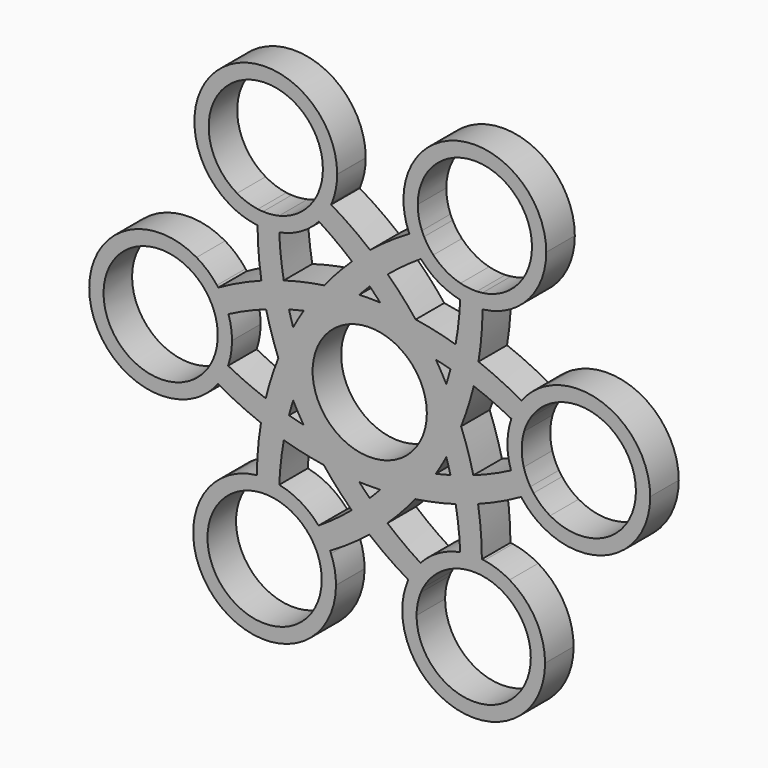
from build123d import *

# Parameters (mm, degrees)
F0_R     = 11.2
F1_DEPTH = 7


with BuildPart() as f1:
    # F0 (on Front) → F1 (new body)
    with BuildSketch(Plane.XZ):
        with BuildLine():
            Line((-9.1836871487, 35.5373028008), (-6.3837021588, 35.5281345802))
            ThreePointArc((-6.3837021588, 35.5281345802), (-6.383645871, 35.551055101), (-6.3836271084, 35.5739756832))
            ThreePointArc((-6.3836271084, 35.5739756832), (-27.3637679206, 47.7097753783), (-27.4232891429, 23.4726055773))
            Line((-27.4232891429, 23.4726055773), (-26.015356736, 25.8928795984))
            ThreePointArc((-26.015356736, 25.8928795984), (-25.9677397582, 45.2826154393), (-9.1836271084, 35.5739756832))
            ThreePointArc((-9.1836271084, 35.5739756832), (-9.1836421185, 35.5556392174), (-9.1836871487, 35.5373028008))
        make_face()
        with BuildLine():
            ThreePointArc((-7.410581207, 30.3108891325), (-6.6471719016, 32.8703118074), (-6.3837021588, 35.5281345802))
            Line((-6.3837021588, 35.5281345802), (-9.1836871487, 35.5373028008))
            ThreePointArc((-9.1836871487, 35.5373028008), (-9.4012400415, 33.3768925458), (-10.0315693956, 31.2990603495))
            ThreePointArc((-10.0315693956, 31.2990603495), (-9.1276363466, 30.8126711417), (-8.2321564565, 30.3108891325))
            Line((-8.2321564565, 30.3108891325), (-7.410581207, 30.3108891325))
        make_face()
        with BuildLine():
            ThreePointArc((-7.5724863783, 29.9282097304), (-7.9017134035, 30.1205975373), (-8.2321564565, 30.3108891325))
            Line((-8.2321564565, 30.3108891325), (-10.4972769244, 30.3108891325))
            ThreePointArc((-10.4972769244, 30.3108891325), (-11.3583855764, 28.9418557137), (-12.4076947331, 27.7111197932))
            ThreePointArc((-12.4076947331, 27.7111197932), (-11.1738310956, 26.9854765696), (-9.9576290906, 26.230605556))
            ThreePointArc((-9.9576290906, 26.230605556), (-8.6188821704, 27.9851169715), (-7.5724863783, 29.9282097304))
        make_face()
        with BuildLine():
            ThreePointArc((-8.2321564565, 30.3108891325), (-9.1276363466, 30.8126711417), (-10.0315693956, 31.2990603495))
            ThreePointArc((-10.0315693956, 31.2990603495), (-10.2523680979, 30.7992934045), (-10.4972769244, 30.3108891325))
            Line((-10.4972769244, 30.3108891325), (-8.2321564565, 30.3108891325))
        make_face()
        with BuildLine():
            ThreePointArc((-17.7412958922, 21.8255908419), (-13.4882412671, 23.3898198199), (-9.9576290906, 26.230605556))
            ThreePointArc((-9.9576290906, 26.230605556), (-11.1738310956, 26.9854765696), (-12.4076947331, 27.7111197932))
            ThreePointArc((-12.4076947331, 27.7111197932), (-14.8875514195, 25.8152282214), (-17.794339534, 24.6773895271))
            ThreePointArc((-17.794339534, 24.6773895271), (-17.784766279, 23.2511749401), (-17.7412958922, 21.8255908419))
        make_face()
        with BuildLine():
            Line((-20.920252105, 24.3868387119), (-21.986200672, 22.5405616357))
            ThreePointArc((-21.986200672, 22.5405616357), (-21.9901571892, 22.1035628839), (-21.9909306937, 21.6665469063))
            ThreePointArc((-21.9909306937, 21.6665469063), (-19.860039205, 21.5837699768), (-17.7412958922, 21.8255908419))
            ThreePointArc((-17.7412958922, 21.8255908419), (-17.784766279, 23.2511749401), (-17.794339534, 24.6773895271))
            ThreePointArc((-17.794339534, 24.6773895271), (-19.3470650704, 24.4220458438), (-20.920252105, 24.3868387119))
        make_face()
        with BuildLine():
            Line((-26.015356736, 25.8928795984), (-27.4232891429, 23.4726055773))
            ThreePointArc((-27.4232891429, 23.4726055773), (-25.022034137, 22.3646918178), (-22.4552755973, 21.7281000323))
            Line((-22.4552755973, 21.7281000323), (-21.986200672, 22.5405616357))
            ThreePointArc((-21.986200672, 22.5405616357), (-21.9660239394, 23.511139), (-21.9301466293, 24.4812628783))
            ThreePointArc((-21.9301466293, 24.4812628783), (-24.0414926951, 24.988135171), (-26.015356736, 25.8928795984))
        make_face()
        with BuildLine():
            Line((-21.986200672, 22.5405616357), (-22.4552755973, 21.7281000323))
            ThreePointArc((-22.4552755973, 21.7281000323), (-22.2233605913, 21.6953813483), (-21.9909306937, 21.6665469063))
            ThreePointArc((-21.9909306937, 21.6665469063), (-21.9901571892, 22.1035628839), (-21.986200672, 22.5405616357))
        make_face()
        with BuildLine():
            ThreePointArc((-20.920252105, 24.3868387119), (-21.4262688258, 24.4226126163), (-21.9301466293, 24.4812628783))
            ThreePointArc((-21.9301466293, 24.4812628783), (-21.9660239394, 23.511139), (-21.986200672, 22.5405616357))
            Line((-21.986200672, 22.5405616357), (-20.920252105, 24.3868387119))
        make_face()
        with BuildLine():
            ThreePointArc((-7.5724863783, 29.9282097304), (-7.4901139741, 30.1189487303), (-7.410581207, 30.3108891325))
            Line((-7.410581207, 30.3108891325), (-8.2321564565, 30.3108891325))
            ThreePointArc((-8.2321564565, 30.3108891325), (-7.9017134035, 30.1205975373), (-7.5724863783, 29.9282097304))
        make_face()
        with BuildLine():
            ThreePointArc((-3.4745154282, 21.458341195), (-1.7278024327, 23.0544963289), (0.0804860799, 24.580540285))
            ThreePointArc((0.0804860799, 24.580540285), (-3.641827315, 27.4034552452), (-7.5724863783, 29.9282097304))
            ThreePointArc((-7.5724863783, 29.9282097304), (-8.6188821704, 27.9851169715), (-9.9576290906, 26.230605556))
            ThreePointArc((-9.9576290906, 26.230605556), (-6.6359454471, 23.9533255246), (-3.4745154282, 21.458341195))
        make_face()
        with BuildLine():
            ThreePointArc((-16.8605141917, 13.8179640045), (-17.4354501583, 17.8069784223), (-17.7412958922, 21.8255908419))
            ThreePointArc((-17.7412958922, 21.8255908419), (-19.860039205, 21.5837699768), (-21.9909306937, 21.6665469063))
            ThreePointArc((-21.9909306937, 21.6665469063), (-21.8003224529, 16.9987707354), (-21.2471292856, 12.3599731324))
            ThreePointArc((-21.2471292856, 12.3599731324), (-19.0678679119, 13.1312288849), (-16.8605141917, 13.8179640045))
        make_face()
        with BuildLine():
            ThreePointArc((-15.8307879866, 9.1399097055), (-16.392353219, 11.4686568531), (-16.8605141917, 13.8179640045))
            ThreePointArc((-16.8605141917, 13.8179640045), (-19.0678679119, 13.1312288849), (-21.2471292856, 12.3599731324))
            ThreePointArc((-21.2471292856, 12.3599731324), (-20.8296807086, 10.0309273651), (-20.320726312, 7.7201519708))
            ThreePointArc((-20.320726312, 7.7201519708), (-18.089691112, 8.4740965485), (-15.8307879866, 9.1399097055))
        make_face()
        with BuildLine():
            ThreePointArc((-12.9671643404, 9.8480447057), (-11.0217853184, 12.7581969973), (-8.9100063016, 15.5499482906))
            ThreePointArc((-8.9100063016, 15.5499482906), (-12.9146547221, 14.8188886702), (-16.8605141917, 13.8179640045))
            ThreePointArc((-16.8605141917, 13.8179640045), (-16.392353219, 11.4686568531), (-15.8307879866, 9.1399097055))
            ThreePointArc((-15.8307879866, 9.1399097055), (-14.4033287247, 9.5115785064), (-12.9671643404, 9.8480447057))
        make_face()
        with BuildLine():
            ThreePointArc((0, 18.2798194111), (-1.7060626709, 19.9031803238), (-3.4745154282, 21.458341195))
            ThreePointArc((-3.4745154282, 21.458341195), (-6.2911933085, 18.5951587297), (-8.9100063016, 15.5499482906))
            ThreePointArc((-8.9100063016, 15.5499482906), (-5.4817623048, 15.9558898835), (-2.0358460149, 16.1639917839))
            ThreePointArc((-2.0358460149, 16.1639917839), (-1.0308677331, 17.2343609921), (0, 18.2798194111))
        make_face()
        with BuildLine():
            ThreePointArc((3.5364507606, 21.5106156132), (1.8380438413, 23.0788724502), (0.0804860799, 24.580540285))
            ThreePointArc((0.0804860799, 24.580540285), (-1.7278024327, 23.0544963289), (-3.4745154282, 21.458341195))
            ThreePointArc((-3.4745154282, 21.458341195), (-1.7060626709, 19.9031803238), (0, 18.2798194111))
            ThreePointArc((0, 18.2798194111), (1.7359715726, 19.9305227421), (3.5364507606, 21.5106156132))
        make_face()
        with BuildLine():
            ThreePointArc((-2.0358460149, 16.1639917839), (-5.4817623048, 15.9558898835), (-8.9100063016, 15.5499482906))
            ThreePointArc((-8.9100063016, 15.5499482906), (-11.0217853184, 12.7581969973), (-12.9671643404, 9.8480447057))
            ThreePointArc((-12.9671643404, 9.8480447057), (-9.6549419215, 10.4841175434), (-6.3122114792, 10.93307099))
            ThreePointArc((-6.3122114792, 10.93307099), (-4.2477174835, 13.6087731647), (-2.0358460149, 16.1639917839))
        make_face()
        with BuildLine():
            ThreePointArc((6.3122114792, 10.93307099), (4.2520411682, 13.6034837478), (2.0450747225, 16.1539160866))
            ThreePointArc((2.0450747225, 16.1539160866), (0.0047000416, 16.1936597328), (-2.0358460149, 16.1639917839))
            ThreePointArc((-2.0358460149, 16.1639917839), (-4.2477174835, 13.6087731647), (-6.3122114792, 10.93307099))
            ThreePointArc((-6.3122114792, 10.93307099), (0, 11.266028276), (6.3122114792, 10.93307099))
        make_face()
        with BuildLine():
            ThreePointArc((9.0116470964, 15.4912659504), (6.3762066832, 18.5938634056), (3.5364507606, 21.5106156132))
            ThreePointArc((3.5364507606, 21.5106156132), (1.7359715726, 19.9305227421), (0, 18.2798194111))
            ThreePointArc((0, 18.2798194111), (1.0356042543, 17.2294378278), (2.0450747225, 16.1539160866))
            ThreePointArc((2.0450747225, 16.1539160866), (5.5380300469, 15.9242445794), (9.0116470964, 15.4912659504))
        make_face()
        with BuildLine():
            ThreePointArc((12.980504504, 9.8450902591), (11.0773248266, 12.7252903552), (9.0116470964, 15.4912659504))
            ThreePointArc((9.0116470964, 15.4912659504), (5.5380300469, 15.9242445794), (2.0450747225, 16.1539160866))
            ThreePointArc((2.0450747225, 16.1539160866), (4.2520411682, 13.6034837478), (6.3122114792, 10.93307099))
            ThreePointArc((6.3122114792, 10.93307099), (9.6616845332, 10.4830178312), (12.980504504, 9.8450902591))
        make_face()
        with BuildLine():
            ThreePointArc((-17.921653398, 0.0586823402), (-16.5590871315, 3.2305995282), (-15.0163505189, 6.3189015249))
            ThreePointArc((-15.0163505189, 6.3189015249), (-15.4408283037, 7.7244228513), (-15.8307879866, 9.1399097055))
            ThreePointArc((-15.8307879866, 9.1399097055), (-18.089691112, 8.4740965485), (-20.320726312, 7.7201519708))
            ThreePointArc((-20.320726312, 7.7201519708), (-19.2494765016, 3.8492461395), (-17.921653398, 0.0586823402))
        make_face()
        with BuildLine():
            ThreePointArc((-12.6244229583, 0), (-13.9094020167, 3.1257553335), (-15.0163505189, 6.3189015249))
            ThreePointArc((-15.0163505189, 6.3189015249), (-16.5590871315, 3.2305995282), (-17.921653398, 0.0586823402))
            ThreePointArc((-17.921653398, 0.0586823402), (-16.5598153653, -3.1660475821), (-15.0122390629, -6.305871381))
            ThreePointArc((-15.0122390629, -6.305871381), (-13.9069830896, -3.1193662043), (-12.6244229583, 0))
        make_face()
        with BuildLine():
            ThreePointArc((-6.3122114792, 10.93307099), (-9.6549419215, 10.4841175434), (-12.9671643404, 9.8480447057))
            ThreePointArc((-12.9671643404, 9.8480447057), (-14.021770688, 8.1009002218), (-15.0163505189, 6.3189015249))
            ThreePointArc((-15.0163505189, 6.3189015249), (-13.9094020167, 3.1257553335), (-12.6244229583, 0))
            ThreePointArc((-12.6244229583, 0), (-9.7566666867, 5.633014138), (-6.3122114792, 10.93307099))
        make_face()
        with BuildLine():
            ThreePointArc((6.3122114792, -10.93307099), (9.7566666867, -5.633014138), (12.6244229583, 0))
            ThreePointArc((12.6244229583, 0), (9.7566666867, 5.633014138), (6.3122114792, 10.93307099))
            ThreePointArc((6.3122114792, 10.93307099), (0, 11.266028276), (-6.3122114792, 10.93307099))
            ThreePointArc((-6.3122114792, 10.93307099), (-9.7566666867, 5.633014138), (-12.6244229583, 0))
            ThreePointArc((-12.6244229583, 0), (-9.7566666867, -5.633014138), (-6.3122114792, -10.93307099))
            ThreePointArc((-6.3122114792, -10.93307099), (0, -11.266028276), (6.3122114792, -10.93307099))
        make_face()
        Circle(F0_R, mode=Mode.SUBTRACT)
        with BuildLine():
            ThreePointArc((12.6244229583, 0), (13.9069830896, 3.1193662043), (15.0122390629, 6.305871381))
            ThreePointArc((15.0122390629, 6.305871381), (14.0264707297, 8.092759511), (12.980504504, 9.8450902591))
            ThreePointArc((12.980504504, 9.8450902591), (9.6616845332, 10.4830178312), (6.3122114792, 10.93307099))
            ThreePointArc((6.3122114792, 10.93307099), (9.7566666867, 5.633014138), (12.6244229583, 0))
        make_face()
        with BuildLine():
            ThreePointArc((15.0163505189, -6.3189015249), (16.5590871315, -3.2305995282), (17.921653398, -0.0586823402))
            ThreePointArc((17.921653398, -0.0586823402), (16.5598153653, 3.1660475821), (15.0122390629, 6.305871381))
            ThreePointArc((15.0122390629, 6.305871381), (13.9069830896, 3.1193662043), (12.6244229583, 0))
            ThreePointArc((12.6244229583, 0), (13.9094020167, -3.1257553335), (15.0163505189, -6.3189015249))
        make_face()
        with BuildLine():
            ThreePointArc((12.9671643404, -9.8480447057), (14.021770688, -8.1009002218), (15.0163505189, -6.3189015249))
            ThreePointArc((15.0163505189, -6.3189015249), (13.9094020167, -3.1257553335), (12.6244229583, 0))
            ThreePointArc((12.6244229583, 0), (9.7566666867, -5.633014138), (6.3122114792, -10.93307099))
            ThreePointArc((6.3122114792, -10.93307099), (9.6549419215, -10.4841175434), (12.9671643404, -9.8480447057))
        make_face()
        with BuildLine():
            ThreePointArc((8.9100063016, -15.5499482906), (11.0217853184, -12.7581969973), (12.9671643404, -9.8480447057))
            ThreePointArc((12.9671643404, -9.8480447057), (9.6549419215, -10.4841175434), (6.3122114792, -10.93307099))
            ThreePointArc((6.3122114792, -10.93307099), (4.2477174835, -13.6087731647), (2.0358460149, -16.1639917839))
            ThreePointArc((2.0358460149, -16.1639917839), (5.4817623048, -15.9558898835), (8.9100063016, -15.5499482906))
        make_face()
        with BuildLine():
            ThreePointArc((-6.3122114792, -10.93307099), (-9.7566666867, -5.633014138), (-12.6244229583, 0))
            ThreePointArc((-12.6244229583, 0), (-13.9069830896, -3.1193662043), (-15.0122390629, -6.305871381))
            ThreePointArc((-15.0122390629, -6.305871381), (-14.0264707297, -8.092759511), (-12.980504504, -9.8450902591))
            ThreePointArc((-12.980504504, -9.8450902591), (-9.6616845332, -10.4830178312), (-6.3122114792, -10.93307099))
        make_face()
        with BuildLine():
            ThreePointArc((2.0358460149, -16.1639917839), (4.2477174835, -13.6087731647), (6.3122114792, -10.93307099))
            ThreePointArc((6.3122114792, -10.93307099), (0, -11.266028276), (-6.3122114792, -10.93307099))
            ThreePointArc((-6.3122114792, -10.93307099), (-4.2520411682, -13.6034837478), (-2.0450747225, -16.1539160866))
            ThreePointArc((-2.0450747225, -16.1539160866), (-0.0047000416, -16.1936597328), (2.0358460149, -16.1639917839))
        make_face()
        with BuildLine():
            ThreePointArc((-2.0450747225, -16.1539160866), (-4.2520411682, -13.6034837478), (-6.3122114792, -10.93307099))
            ThreePointArc((-6.3122114792, -10.93307099), (-9.6616845332, -10.4830178312), (-12.980504504, -9.8450902591))
            ThreePointArc((-12.980504504, -9.8450902591), (-11.0773248266, -12.7252903552), (-9.0116470964, -15.4912659504))
            ThreePointArc((-9.0116470964, -15.4912659504), (-5.5380300469, -15.9242445794), (-2.0450747225, -16.1539160866))
        make_face()
        with BuildLine():
            ThreePointArc((-15.8307879866, -9.1399097055), (-16.3836284411, -11.4290837753), (-16.8462108838, -13.7381892242))
            ThreePointArc((-16.8462108838, -13.7381892242), (-12.958283193, -14.7459125902), (-9.0116470964, -15.4912659504))
            ThreePointArc((-9.0116470964, -15.4912659504), (-11.0773248266, -12.7252903552), (-12.980504504, -9.8450902591))
            ThreePointArc((-12.980504504, -9.8450902591), (-14.4099605706, -9.5099381409), (-15.8307879866, -9.1399097055))
        make_face()
        with BuildLine():
            ThreePointArc((31.816153101, 35.4397267387), (30.3064563914, 29.8238543986), (26.1843634331, 25.7219577716))
            Line((26.1843634331, 25.7219577716), (27.5764160161, 23.2925155298))
            ThreePointArc((27.5764160161, 23.2925155298), (32.729032214, 28.4198863136), (34.616153101, 35.4397267387))
            ThreePointArc((34.616153101, 35.4397267387), (20.6390736833, 49.4397079761), (6.6162281515, 35.4855678417))
            Line((6.6162281515, 35.4855678417), (9.4162131414, 35.4763996211))
            ThreePointArc((9.4162131414, 35.4763996211), (20.6344895668, 46.6397117286), (31.816153101, 35.4397267387))
        make_face()
        with BuildLine():
            ThreePointArc((54.9997802094, -0.1342489445), (48.0196206346, 11.9786301685), (34.0395172944, 12.0129622644))
            Line((34.0395172944, 12.0129622644), (35.4315698774, 9.5835200226))
            ThreePointArc((35.4315698774, 9.5835200226), (46.6156525495, 9.5560543459), (52.1997802094, -0.1342489445))
            ThreePointArc((52.1997802094, -0.1342489445), (46.5838928592, -9.8428887006), (35.3680505818, -9.8153450292))
            Line((35.3680505818, -9.8153450292), (33.9601181749, -12.2356190504))
            ThreePointArc((33.9601181749, -12.2356190504), (47.9799210216, -12.2700486396), (54.9997802094, -0.1342489445))
        make_face()
        with BuildLine():
            ThreePointArc((34.3836271084, -35.5739756832), (32.5194268036, -28.5938348709), (27.4232891429, -23.4726055773))
            Line((27.4232891429, -23.4726055773), (26.015356736, -25.8928795984))
            ThreePointArc((26.015356736, -25.8928795984), (30.0922668645, -29.9898630334), (31.5836271084, -35.5739756832))
            ThreePointArc((31.5836271084, -35.5739756832), (20.3652906426, -46.7739606731), (9.1836871487, -35.5373028008))
            Line((9.1836871487, -35.5373028008), (6.3837021588, -35.5281345802))
            ThreePointArc((6.3837021588, -35.5281345802), (20.3607065262, -49.5739569205), (34.3836271084, -35.5739756832))
        make_face()
        with BuildLine():
            Line((-26.1843634331, -25.7219577716), (-27.5764160161, -23.2925155298))
            ThreePointArc((-27.5764160161, -23.2925155298), (-27.6558151355, -47.5410968446), (-6.6162281515, -35.4855678417))
            Line((-6.6162281515, -35.4855678417), (-9.4162131414, -35.4763996211))
            ThreePointArc((-9.4162131414, -35.4763996211), (-26.2478827286, -45.1208228234), (-26.1843634331, -25.7219577716))
        make_face()
        with BuildLine():
            Line((-35.3680505818, 9.8153450292), (-33.9601181749, 12.2356190504))
            ThreePointArc((-33.9601181749, 12.2356190504), (-54.999705159, 0.1800900474), (-34.0395172944, -12.0129622644))
            Line((-34.0395172944, -12.0129622644), (-35.4315698774, -9.5835200226))
            ThreePointArc((-35.4315698774, -9.5835200226), (-52.1997201691, 0.1709218269), (-35.3680505818, 9.8153450292))
        make_face()
        with BuildLine():
            Line((27.5764160161, 23.2925155298), (26.1843634331, 25.7219577716))
            ThreePointArc((26.1843634331, 25.7219577716), (24.2046168233, 24.8301589759), (22.0899966794, 24.3371241111))
            ThreePointArc((22.0899966794, 24.3371241111), (22.1207377939, 23.3111005235), (22.1339217717, 22.2847011855))
            Line((22.1339217717, 22.2847011855), (22.5447093965, 21.5731961483))
            ThreePointArc((22.5447093965, 21.5731961483), (25.1429391047, 22.1917756338), (27.5764160161, 23.2925155298))
        make_face()
        with BuildLine():
            ThreePointArc((22.1339217717, 22.2847011855), (22.1207377939, 23.3111005235), (22.0899966794, 24.3371241111))
            ThreePointArc((22.0899966794, 24.3371241111), (21.5467864579, 24.278457924), (21.0013615378, 24.2463530533))
            Line((21.0013615378, 24.2463530533), (22.1339217717, 22.2847011855))
        make_face()
        with BuildLine():
            Line((22.5447093965, 21.5731961483), (22.1339217717, 22.2847011855))
            ThreePointArc((22.1339217717, 22.2847011855), (22.1343459427, 21.9033833096), (22.1323467272, 21.5220704386))
            ThreePointArc((22.1323467272, 21.5220704386), (22.3387177486, 21.546103344), (22.5447093965, 21.5731961483))
        make_face()
        with BuildLine():
            ThreePointArc((22.1323467272, 21.5220704386), (22.1343459427, 21.9033833096), (22.1339217717, 22.2847011855))
            Line((22.1339217717, 22.2847011855), (21.0013615378, 24.2463530533))
            ThreePointArc((21.0013615378, 24.2463530533), (19.3851894925, 24.307578312), (17.7946863417, 24.6009387379))
            ThreePointArc((17.7946863417, 24.6009387379), (17.7831926947, 23.1695598712), (17.7375562229, 21.7388625319))
            ThreePointArc((17.7375562229, 21.7388625319), (19.92638114, 21.4567293976), (22.1323467272, 21.5220704386))
        make_face()
        with BuildLine():
            ThreePointArc((17.7375562229, 21.7388625319), (17.7831926947, 23.1695598712), (17.7946863417, 24.6009387379))
            ThreePointArc((17.7946863417, 24.6009387379), (14.9128677345, 25.8006118401), (12.4740764625, 27.7490448435))
            ThreePointArc((12.4740764625, 27.7490448435), (11.2437250264, 27.027646868), (10.0308681756, 26.2772083596))
            ThreePointArc((10.0308681756, 26.2772083596), (13.5120575205, 23.3760694996), (17.7375562229, 21.7388625319))
        make_face()
        with BuildLine():
            Line((10.65949579, 30.3108891325), (8.5275986561, 30.3108891325))
            ThreePointArc((8.5275986561, 30.3108891325), (8.147168377, 30.095816201), (7.7683146863, 29.8779780867))
            ThreePointArc((7.7683146863, 29.8779780867), (8.7620735068, 27.9911834601), (10.0308681756, 26.2772083596))
            ThreePointArc((10.0308681756, 26.2772083596), (11.2437250264, 27.027646868), (12.4740764625, 27.7490448435))
            ThreePointArc((12.4740764625, 27.7490448435), (11.476579578, 28.9660727615), (10.65949579, 30.3108891325))
        make_face()
        with BuildLine():
            ThreePointArc((10.2363222547, 31.2326955288), (9.6196135037, 33.3146110044), (9.4162131414, 35.4763996211))
            Line((9.4162131414, 35.4763996211), (6.6162281515, 35.4855678417))
            ThreePointArc((6.6162281515, 35.4855678417), (6.8573741935, 32.8520631258), (7.5894488053, 30.3108891325))
            Line((7.5894488053, 30.3108891325), (8.5275986561, 30.3108891325))
            ThreePointArc((8.5275986561, 30.3108891325), (9.3782316762, 30.7787042517), (10.2363222547, 31.2326955288))
        make_face()
        with BuildLine():
            ThreePointArc((10.65949579, 30.3108891325), (10.4374685396, 30.7669994196), (10.2363222547, 31.2326955288))
            ThreePointArc((10.2363222547, 31.2326955288), (9.3782316762, 30.7787042517), (8.5275986561, 30.3108891325))
            Line((8.5275986561, 30.3108891325), (10.65949579, 30.3108891325))
        make_face()
        with BuildLine():
            ThreePointArc((7.7683146863, 29.8779780867), (8.147168377, 30.095816201), (8.5275986561, 30.3108891325))
            Line((8.5275986561, 30.3108891325), (7.5894488053, 30.3108891325))
            ThreePointArc((7.5894488053, 30.3108891325), (7.6770710968, 30.0936855036), (7.7683146863, 29.8779780867))
        make_face()
        with BuildLine():
            ThreePointArc((10.0308681756, 26.2772083596), (8.7620735068, 27.9911834601), (7.7683146863, 29.8779780867))
            ThreePointArc((7.7683146863, 29.8779780867), (3.8212060635, 27.3790184226), (0.0804860799, 24.580540285))
            ThreePointArc((0.0804860799, 24.580540285), (1.8380438413, 23.0788724502), (3.5364507606, 21.5106156132))
            ThreePointArc((3.5364507606, 21.5106156132), (6.7035705992, 24.0030319747), (10.0308681756, 26.2772083596))
        make_face()
        with BuildLine():
            ThreePointArc((21.3276153655, 12.2205671526), (21.9111747363, 16.8556425935), (22.1323467272, 21.5220704386))
            ThreePointArc((22.1323467272, 21.5220704386), (19.92638114, 21.4567293976), (17.7375562229, 21.7388625319))
            ThreePointArc((17.7375562229, 21.7388625319), (17.4262156859, 17.7235600976), (16.8462108838, 13.7381892242))
            ThreePointArc((16.8462108838, 13.7381892242), (19.101878276, 13.0235689639), (21.3276153655, 12.2205671526))
        make_face()
        with BuildLine():
            ThreePointArc((20.3969649523, 7.6926516087), (20.9059117532, 9.9476435653), (21.3276153655, 12.2205671526))
            ThreePointArc((21.3276153655, 12.2205671526), (19.101878276, 13.0235689639), (16.8462108838, 13.7381892242))
            ThreePointArc((16.8462108838, 13.7381892242), (16.3836284411, 11.4290837753), (15.8307879866, 9.1399097055))
            ThreePointArc((15.8307879866, 9.1399097055), (18.1283247916, 8.4618658889), (20.3969649523, 7.6926516087))
        make_face()
        with BuildLine():
            ThreePointArc((-15.0122390629, -6.305871381), (-16.5598153653, -3.1660475821), (-17.921653398, 0.0586823402))
            ThreePointArc((-17.921653398, 0.0586823402), (-19.2908614053, -3.7749747354), (-20.3969649523, -7.6926516087))
            ThreePointArc((-20.3969649523, -7.6926516087), (-18.1283247916, -8.4618658889), (-15.8307879866, -9.1399097055))
            ThreePointArc((-15.8307879866, -9.1399097055), (-15.438932979, -7.7178593214), (-15.0122390629, -6.305871381))
        make_face()
        with BuildLine():
            ThreePointArc((-20.3969649523, -7.6926516087), (-20.9059117532, -9.9476435653), (-21.3276153655, -12.2205671526))
            ThreePointArc((-21.3276153655, -12.2205671526), (-19.101878276, -13.0235689639), (-16.8462108838, -13.7381892242))
            ThreePointArc((-16.8462108838, -13.7381892242), (-16.3836284411, -11.4290837753), (-15.8307879866, -9.1399097055))
            ThreePointArc((-15.8307879866, -9.1399097055), (-18.1283247916, -8.4618658889), (-20.3969649523, -7.6926516087))
        make_face()
        with BuildLine():
            ThreePointArc((17.921653398, -0.0586823402), (19.2908614053, 3.7749747354), (20.3969649523, 7.6926516087))
            ThreePointArc((20.3969649523, 7.6926516087), (18.1283247916, 8.4618658889), (15.8307879866, 9.1399097055))
            ThreePointArc((15.8307879866, 9.1399097055), (15.438932979, 7.7178593214), (15.0122390629, 6.305871381))
            ThreePointArc((15.0122390629, 6.305871381), (16.5598153653, 3.1660475821), (17.921653398, -0.0586823402))
        make_face()
        with BuildLine():
            ThreePointArc((15.8307879866, 9.1399097055), (16.3836284411, 11.4290837753), (16.8462108838, 13.7381892242))
            ThreePointArc((16.8462108838, 13.7381892242), (12.958283193, 14.7459125902), (9.0116470964, 15.4912659504))
            ThreePointArc((9.0116470964, 15.4912659504), (11.0773248266, 12.7252903552), (12.980504504, 9.8450902591))
            ThreePointArc((12.980504504, 9.8450902591), (14.4099605706, 9.5099381409), (15.8307879866, 9.1399097055))
        make_face()
        with BuildLine():
            ThreePointArc((15.8307879866, -9.1399097055), (14.4033287247, -9.5115785064), (12.9671643404, -9.8480447057))
            ThreePointArc((12.9671643404, -9.8480447057), (11.0217853184, -12.7581969973), (8.9100063016, -15.5499482906))
            ThreePointArc((8.9100063016, -15.5499482906), (12.9146547221, -14.8188886702), (16.8605141917, -13.8179640045))
            ThreePointArc((16.8605141917, -13.8179640045), (16.392353219, -11.4686568531), (15.8307879866, -9.1399097055))
        make_face()
        with BuildLine():
            ThreePointArc((20.320726312, -7.7201519708), (19.2494765016, -3.8492461395), (17.921653398, -0.0586823402))
            ThreePointArc((17.921653398, -0.0586823402), (16.5590871315, -3.2305995282), (15.0163505189, -6.3189015249))
            ThreePointArc((15.0163505189, -6.3189015249), (15.4408283037, -7.7244228513), (15.8307879866, -9.1399097055))
            ThreePointArc((15.8307879866, -9.1399097055), (18.089691112, -8.4740965485), (20.320726312, -7.7201519708))
        make_face()
        with BuildLine():
            ThreePointArc((21.2471292856, -12.3599731324), (20.8296807086, -10.0309273651), (20.320726312, -7.7201519708))
            ThreePointArc((20.320726312, -7.7201519708), (18.089691112, -8.4740965485), (15.8307879866, -9.1399097055))
            ThreePointArc((15.8307879866, -9.1399097055), (16.392353219, -11.4686568531), (16.8605141917, -13.8179640045))
            ThreePointArc((16.8605141917, -13.8179640045), (19.0678679119, -13.1312288849), (21.2471292856, -12.3599731324))
        make_face()
        with BuildLine():
            ThreePointArc((-3.5364507606, -21.5106156132), (-1.7359715726, -19.9305227421), (0, -18.2798194111))
            ThreePointArc((0, -18.2798194111), (-1.0356042543, -17.2294378278), (-2.0450747225, -16.1539160866))
            ThreePointArc((-2.0450747225, -16.1539160866), (-5.5380300469, -15.9242445794), (-9.0116470964, -15.4912659504))
            ThreePointArc((-9.0116470964, -15.4912659504), (-6.3762066832, -18.5938634056), (-3.5364507606, -21.5106156132))
        make_face()
        with BuildLine():
            ThreePointArc((3.4745154282, -21.458341195), (6.2911933085, -18.5951587297), (8.9100063016, -15.5499482906))
            ThreePointArc((8.9100063016, -15.5499482906), (5.4817623048, -15.9558898835), (2.0358460149, -16.1639917839))
            ThreePointArc((2.0358460149, -16.1639917839), (1.0308677331, -17.2343609921), (0, -18.2798194111))
            ThreePointArc((0, -18.2798194111), (1.7060626709, -19.9031803238), (3.4745154282, -21.458341195))
        make_face()
        with BuildLine():
            ThreePointArc((-0.0804860799, -24.580540285), (1.7278024327, -23.0544963289), (3.4745154282, -21.458341195))
            ThreePointArc((3.4745154282, -21.458341195), (1.7060626709, -19.9031803238), (0, -18.2798194111))
            ThreePointArc((0, -18.2798194111), (-1.7359715726, -19.9305227421), (-3.5364507606, -21.5106156132))
            ThreePointArc((-3.5364507606, -21.5106156132), (-1.8380438413, -23.0788724502), (-0.0804860799, -24.580540285))
        make_face()
        with BuildLine():
            ThreePointArc((-0.0804860799, -24.580540285), (3.641827315, -27.4034552452), (7.5724863783, -29.9282097304))
            ThreePointArc((7.5724863783, -29.9282097304), (8.6188821704, -27.9851169715), (9.9576290906, -26.230605556))
            ThreePointArc((9.9576290906, -26.230605556), (6.6359454471, -23.9533255246), (3.4745154282, -21.458341195))
            ThreePointArc((3.4745154282, -21.458341195), (1.7278024327, -23.0544963289), (-0.0804860799, -24.580540285))
        make_face()
        with BuildLine():
            ThreePointArc((17.7412958922, -21.8255908419), (19.860039205, -21.5837699768), (21.9909306937, -21.6665469063))
            ThreePointArc((21.9909306937, -21.6665469063), (21.8003224529, -16.9987707354), (21.2471292856, -12.3599731324))
            ThreePointArc((21.2471292856, -12.3599731324), (19.0678679119, -13.1312288849), (16.8605141917, -13.8179640045))
            ThreePointArc((16.8605141917, -13.8179640045), (17.4354501583, -17.8069784223), (17.7412958922, -21.8255908419))
        make_face()
        with BuildLine():
            ThreePointArc((-21.3276153655, -12.2205671526), (-21.9111747363, -16.8556425935), (-22.1323467272, -21.5220704386))
            ThreePointArc((-22.1323467272, -21.5220704386), (-19.92638114, -21.4567293976), (-17.7375562229, -21.7388625319))
            ThreePointArc((-17.7375562229, -21.7388625319), (-17.4262156859, -17.7235600976), (-16.8462108838, -13.7381892242))
            ThreePointArc((-16.8462108838, -13.7381892242), (-19.101878276, -13.0235689639), (-21.3276153655, -12.2205671526))
        make_face()
        with BuildLine():
            ThreePointArc((-10.0308681756, -26.2772083596), (-8.7620735068, -27.9911834601), (-7.7683146863, -29.8779780867))
            ThreePointArc((-7.7683146863, -29.8779780867), (-3.8212060635, -27.3790184226), (-0.0804860799, -24.580540285))
            ThreePointArc((-0.0804860799, -24.580540285), (-1.8380438413, -23.0788724502), (-3.5364507606, -21.5106156132))
            ThreePointArc((-3.5364507606, -21.5106156132), (-6.7035705992, -24.0030319747), (-10.0308681756, -26.2772083596))
        make_face()
        with BuildLine():
            ThreePointArc((21.2471292856, -12.3599731324), (25.5530020513, -10.5478126516), (29.7048331054, -8.4061392918))
            ThreePointArc((29.7048331054, -8.4061392918), (28.5452633104, -6.528387574), (27.6951853135, -4.4917430241))
            ThreePointArc((27.6951853135, -4.4917430241), (24.0621611329, -6.229765427), (20.320726312, -7.7201519708))
            ThreePointArc((20.320726312, -7.7201519708), (20.8296807086, -10.0309273651), (21.2471292856, -12.3599731324))
        make_face()
        with BuildLine():
            ThreePointArc((29.75924538, 8.2114311805), (25.6215285164, 10.3802476872), (21.3276153655, 12.2205671526))
            ThreePointArc((21.3276153655, 12.2205671526), (20.9059117532, 9.9476435653), (20.3969649523, 7.6926516087))
            ThreePointArc((20.3969649523, 7.6926516087), (24.1390207575, 6.1960535524), (27.7721640678, 4.4516175177))
            ThreePointArc((27.7721640678, 4.4516175177), (28.6221127118, 6.4074134833), (29.75924538, 8.2114311805))
        make_face()
        with BuildLine():
            Line((35.4315698774, 9.5835200226), (34.0395172944, 12.0129622644))
            ThreePointArc((34.0395172944, 12.0129622644), (31.8794083305, 10.4873713081), (30.0447244027, 8.5827891001))
            Line((30.0447244027, 8.5827891001), (30.513799328, 7.7703274968))
            ThreePointArc((30.513799328, 7.7703274968), (31.3442556156, 7.2675652517), (32.166468884, 6.7514326505))
            ThreePointArc((32.166468884, 6.7514326505), (33.6611061988, 8.3264758334), (35.4315698774, 9.5835200226))
        make_face()
        with BuildLine():
            ThreePointArc((31.579747895, 5.9240504205), (31.8637373654, 6.3443868033), (32.166468884, 6.7514326505))
            ThreePointArc((32.166468884, 6.7514326505), (31.3442556156, 7.2675652517), (30.513799328, 7.7703274968))
            Line((30.513799328, 7.7703274968), (31.579747895, 5.9240504205))
        make_face()
        with BuildLine():
            Line((30.513799328, 7.7703274968), (30.0447244027, 8.5827891001))
            ThreePointArc((30.0447244027, 8.5827891001), (29.900431688, 8.3983041553), (29.75924538, 8.2114311805))
            ThreePointArc((29.75924538, 8.2114311805), (30.1373255662, 7.9922533171), (30.513799328, 7.7703274968))
        make_face()
        with BuildLine():
            Line((31.579747895, 5.9240504205), (30.513799328, 7.7703274968))
            ThreePointArc((30.513799328, 7.7703274968), (30.1373255662, 7.9922533171), (29.75924538, 8.2114311805))
            ThreePointArc((29.75924538, 8.2114311805), (28.6221127118, 6.4074134833), (27.7721640678, 4.4516175177))
            ThreePointArc((27.7721640678, 4.4516175177), (29.0284913054, 3.776471928), (30.2684159965, 3.0716553165))
            ThreePointArc((30.2684159965, 3.0716553165), (30.8236446483, 4.5440269177), (31.579747895, 5.9240504205))
        make_face()
        with BuildLine():
            ThreePointArc((30.2684159965, 3.0716553165), (29.0284913054, 3.776471928), (27.7721640678, 4.4516175177))
            ThreePointArc((27.7721640678, 4.4516175177), (27.0002987875, -0.0137503203), (27.6951853135, -4.4917430241))
            ThreePointArc((27.6951853135, -4.4917430241), (28.9570237903, -3.8159166984), (30.2023810748, -3.1101810553))
            ThreePointArc((30.2023810748, -3.1101810553), (29.800419154, -0.0146163813), (30.2684159965, 3.0716553165))
        make_face()
        with BuildLine():
            ThreePointArc((29.7048331054, -8.4061392918), (30.0360593463, -8.2172142278), (30.3660782283, -8.026187947))
            Line((30.3660782283, -8.026187947), (31.4986384622, -6.0645360791))
            ThreePointArc((31.4986384622, -6.0645360791), (30.7435750689, -4.6342774017), (30.2023810748, -3.1101810553))
            ThreePointArc((30.2023810748, -3.1101810553), (28.9570237903, -3.8159166984), (27.6951853135, -4.4917430241))
            ThreePointArc((27.6951853135, -4.4917430241), (28.5452633104, -6.528387574), (29.7048331054, -8.4061392918))
        make_face()
        with BuildLine():
            ThreePointArc((30.3660782283, -8.026187947), (31.2483741405, -7.5015706182), (32.121566075, -6.9619362384))
            ThreePointArc((32.121566075, -6.9619362384), (31.7991545558, -6.5208354805), (31.4986384622, -6.0645360791))
            Line((31.4986384622, -6.0645360791), (30.3660782283, -8.026187947))
        make_face()
        with BuildLine():
            ThreePointArc((29.9552906035, -8.7376929842), (31.7901110064, -10.6785361736), (33.9601181749, -12.2356190504))
            Line((33.9601181749, -12.2356190504), (35.3680505818, -9.8153450292))
            ThreePointArc((35.3680505818, -9.8153450292), (33.6058568648, -8.5467335699), (32.121566075, -6.9619362384))
            ThreePointArc((32.121566075, -6.9619362384), (31.2483741405, -7.5015706182), (30.3660782283, -8.026187947))
            Line((30.3660782283, -8.026187947), (29.9552906035, -8.7376929842))
        make_face()
        with BuildLine():
            ThreePointArc((29.7048331054, -8.4061392918), (29.8288317228, -8.5728453863), (29.9552906035, -8.7376929842))
            Line((29.9552906035, -8.7376929842), (30.3660782283, -8.026187947))
            ThreePointArc((30.3660782283, -8.026187947), (30.0360593463, -8.2172142278), (29.7048331054, -8.4061392918))
        make_face()
        with BuildLine():
            ThreePointArc((-21.2471292856, 12.3599731324), (-25.5530020513, 10.5478126516), (-29.7048331054, 8.4061392918))
            ThreePointArc((-29.7048331054, 8.4061392918), (-28.5452633104, 6.528387574), (-27.6951853135, 4.4917430241))
            ThreePointArc((-27.6951853135, 4.4917430241), (-24.0621611329, 6.229765427), (-20.320726312, 7.7201519708))
            ThreePointArc((-20.320726312, 7.7201519708), (-20.8296807086, 10.0309273651), (-21.2471292856, 12.3599731324))
        make_face()
        with BuildLine():
            ThreePointArc((-27.7721640678, -4.4516175177), (-28.6221127118, -6.4074134833), (-29.75924538, -8.2114311805))
            ThreePointArc((-29.75924538, -8.2114311805), (-25.6215285164, -10.3802476872), (-21.3276153655, -12.2205671526))
            ThreePointArc((-21.3276153655, -12.2205671526), (-20.9059117532, -9.9476435653), (-20.3969649523, -7.6926516087))
            ThreePointArc((-20.3969649523, -7.6926516087), (-24.1390207575, -6.1960535524), (-27.7721640678, -4.4516175177))
        make_face()
        with BuildLine():
            ThreePointArc((-26.9997802094, 0.1342489445), (-27.1747245397, 2.3405661765), (-27.6951853135, 4.4917430241))
            ThreePointArc((-27.6951853135, 4.4917430241), (-28.9570237903, 3.8159166984), (-30.2023810748, 3.1101810553))
            ThreePointArc((-30.2023810748, 3.1101810553), (-29.9008867892, 1.6357697889), (-29.7997802094, 0.1342489445))
            ThreePointArc((-29.7997802094, 0.1342489445), (-29.9175584289, -1.4857388357), (-30.2684159965, -3.0716553165))
            ThreePointArc((-30.2684159965, -3.0716553165), (-29.0284913054, -3.776471928), (-27.7721640678, -4.4516175177))
            ThreePointArc((-27.7721640678, -4.4516175177), (-27.1942265084, -2.1909794332), (-26.9997802094, 0.1342489445))
        make_face()
        with BuildLine():
            ThreePointArc((-29.7048331054, 8.4061392918), (-30.0360593463, 8.2172142278), (-30.3660782283, 8.026187947))
            Line((-30.3660782283, 8.026187947), (-31.4986384622, 6.0645360791))
            ThreePointArc((-31.4986384622, 6.0645360791), (-30.7435750689, 4.6342774017), (-30.2023810748, 3.1101810553))
            ThreePointArc((-30.2023810748, 3.1101810553), (-28.9570237903, 3.8159166984), (-27.6951853135, 4.4917430241))
            ThreePointArc((-27.6951853135, 4.4917430241), (-28.5452633104, 6.528387574), (-29.7048331054, 8.4061392918))
        make_face()
        with BuildLine():
            Line((-31.579747895, -5.9240504205), (-30.513799328, -7.7703274968))
            ThreePointArc((-30.513799328, -7.7703274968), (-30.1373255662, -7.9922533171), (-29.75924538, -8.2114311805))
            ThreePointArc((-29.75924538, -8.2114311805), (-28.6221127118, -6.4074134833), (-27.7721640678, -4.4516175177))
            ThreePointArc((-27.7721640678, -4.4516175177), (-29.0284913054, -3.776471928), (-30.2684159965, -3.0716553165))
            ThreePointArc((-30.2684159965, -3.0716553165), (-30.8236446483, -4.5440269177), (-31.579747895, -5.9240504205))
        make_face()
        with BuildLine():
            ThreePointArc((-29.9552906035, 8.7376929842), (-31.7901110064, 10.6785361736), (-33.9601181749, 12.2356190504))
            Line((-33.9601181749, 12.2356190504), (-35.3680505818, 9.8153450292))
            ThreePointArc((-35.3680505818, 9.8153450292), (-33.6058568648, 8.5467335699), (-32.121566075, 6.9619362384))
            ThreePointArc((-32.121566075, 6.9619362384), (-31.2483741405, 7.5015706182), (-30.3660782283, 8.026187947))
            Line((-30.3660782283, 8.026187947), (-29.9552906035, 8.7376929842))
        make_face()
        with BuildLine():
            Line((-35.4315698774, -9.5835200226), (-34.0395172944, -12.0129622644))
            ThreePointArc((-34.0395172944, -12.0129622644), (-31.8794083305, -10.4873713081), (-30.0447244027, -8.5827891001))
            Line((-30.0447244027, -8.5827891001), (-30.513799328, -7.7703274968))
            ThreePointArc((-30.513799328, -7.7703274968), (-31.3442556156, -7.2675652517), (-32.166468884, -6.7514326505))
            ThreePointArc((-32.166468884, -6.7514326505), (-33.6611061988, -8.3264758334), (-35.4315698774, -9.5835200226))
        make_face()
        with BuildLine():
            ThreePointArc((-29.7048331054, 8.4061392918), (-29.8288317228, 8.5728453863), (-29.9552906035, 8.7376929842))
            Line((-29.9552906035, 8.7376929842), (-30.3660782283, 8.026187947))
            ThreePointArc((-30.3660782283, 8.026187947), (-30.0360593463, 8.2172142278), (-29.7048331054, 8.4061392918))
        make_face()
        with BuildLine():
            ThreePointArc((-30.3660782283, 8.026187947), (-31.2483741405, 7.5015706182), (-32.121566075, 6.9619362384))
            ThreePointArc((-32.121566075, 6.9619362384), (-31.7991545558, 6.5208354805), (-31.4986384622, 6.0645360791))
            Line((-31.4986384622, 6.0645360791), (-30.3660782283, 8.026187947))
        make_face()
        with BuildLine():
            ThreePointArc((-31.579747895, -5.9240504205), (-31.8637373654, -6.3443868033), (-32.166468884, -6.7514326505))
            ThreePointArc((-32.166468884, -6.7514326505), (-31.3442556156, -7.2675652517), (-30.513799328, -7.7703274968))
            Line((-30.513799328, -7.7703274968), (-31.579747895, -5.9240504205))
        make_face()
        with BuildLine():
            Line((-30.513799328, -7.7703274968), (-30.0447244027, -8.5827891001))
            ThreePointArc((-30.0447244027, -8.5827891001), (-29.900431688, -8.3983041553), (-29.75924538, -8.2114311805))
            ThreePointArc((-29.75924538, -8.2114311805), (-30.1373255662, -7.9922533171), (-30.513799328, -7.7703274968))
        make_face()
        with BuildLine():
            Line((-9.4162131414, -35.4763996211), (-6.6162281515, -35.4855678417))
            ThreePointArc((-6.6162281515, -35.4855678417), (-6.6161718637, -35.4626473209), (-6.616153101, -35.4397267387))
            ThreePointArc((-6.616153101, -35.4397267387), (-6.8616291155, -32.829540935), (-7.5894488053, -30.3108891325))
            Line((-7.5894488053, -30.3108891325), (-8.5275986561, -30.3108891325))
            ThreePointArc((-8.5275986561, -30.3108891325), (-9.3782316762, -30.7787042517), (-10.2363222547, -31.2326955288))
            ThreePointArc((-10.2363222547, -31.2326955288), (-9.6231074476, -33.2966104888), (-9.416153101, -35.4397267387))
            ThreePointArc((-9.416153101, -35.4397267387), (-9.4161681111, -35.4580632045), (-9.4162131414, -35.4763996211))
        make_face()
        with BuildLine():
            ThreePointArc((-10.0308681756, -26.2772083596), (-13.5120575205, -23.3760694996), (-17.7375562229, -21.7388625319))
            ThreePointArc((-17.7375562229, -21.7388625319), (-17.7831926947, -23.1695598712), (-17.7946863417, -24.6009387379))
            ThreePointArc((-17.7946863417, -24.6009387379), (-14.9128677345, -25.8006118401), (-12.4740764625, -27.7490448435))
            ThreePointArc((-12.4740764625, -27.7490448435), (-11.2437250264, -27.027646868), (-10.0308681756, -26.2772083596))
        make_face()
        with BuildLine():
            Line((-10.65949579, -30.3108891325), (-8.5275986561, -30.3108891325))
            ThreePointArc((-8.5275986561, -30.3108891325), (-8.147168377, -30.095816201), (-7.7683146863, -29.8779780867))
            ThreePointArc((-7.7683146863, -29.8779780867), (-8.7620735068, -27.9911834601), (-10.0308681756, -26.2772083596))
            ThreePointArc((-10.0308681756, -26.2772083596), (-11.2437250264, -27.027646868), (-12.4740764625, -27.7490448435))
            ThreePointArc((-12.4740764625, -27.7490448435), (-11.476579578, -28.9660727615), (-10.65949579, -30.3108891325))
        make_face()
        with BuildLine():
            ThreePointArc((-22.5447093965, -21.5731961483), (-25.1429391047, -22.1917756338), (-27.5764160161, -23.2925155298))
            Line((-27.5764160161, -23.2925155298), (-26.1843634331, -25.7219577716))
            ThreePointArc((-26.1843634331, -25.7219577716), (-24.2046168233, -24.8301589759), (-22.0899966794, -24.3371241111))
            ThreePointArc((-22.0899966794, -24.3371241111), (-22.1207377939, -23.3111005235), (-22.1339217717, -22.2847011855))
            Line((-22.1339217717, -22.2847011855), (-22.5447093965, -21.5731961483))
        make_face()
        with BuildLine():
            ThreePointArc((-22.1323467272, -21.5220704386), (-22.1343459427, -21.9033833096), (-22.1339217717, -22.2847011855))
            Line((-22.1339217717, -22.2847011855), (-21.0013615378, -24.2463530533))
            ThreePointArc((-21.0013615378, -24.2463530533), (-19.3851894925, -24.307578312), (-17.7946863417, -24.6009387379))
            ThreePointArc((-17.7946863417, -24.6009387379), (-17.7831926947, -23.1695598712), (-17.7375562229, -21.7388625319))
            ThreePointArc((-17.7375562229, -21.7388625319), (-19.92638114, -21.4567293976), (-22.1323467272, -21.5220704386))
        make_face()
        with BuildLine():
            ThreePointArc((-22.1323467272, -21.5220704386), (-22.3387177486, -21.546103344), (-22.5447093965, -21.5731961483))
            Line((-22.5447093965, -21.5731961483), (-22.1339217717, -22.2847011855))
            ThreePointArc((-22.1339217717, -22.2847011855), (-22.1343459427, -21.9033833096), (-22.1323467272, -21.5220704386))
        make_face()
        with BuildLine():
            ThreePointArc((-22.1339217717, -22.2847011855), (-22.1207377939, -23.3111005235), (-22.0899966794, -24.3371241111))
            ThreePointArc((-22.0899966794, -24.3371241111), (-21.5467864579, -24.278457924), (-21.0013615378, -24.2463530533))
            Line((-21.0013615378, -24.2463530533), (-22.1339217717, -22.2847011855))
        make_face()
        with BuildLine():
            Line((-8.5275986561, -30.3108891325), (-7.5894488053, -30.3108891325))
            ThreePointArc((-7.5894488053, -30.3108891325), (-7.6770710968, -30.0936855036), (-7.7683146863, -29.8779780867))
            ThreePointArc((-7.7683146863, -29.8779780867), (-8.147168377, -30.095816201), (-8.5275986561, -30.3108891325))
        make_face()
        with BuildLine():
            ThreePointArc((-10.2363222547, -31.2326955288), (-9.3782316762, -30.7787042517), (-8.5275986561, -30.3108891325))
            Line((-8.5275986561, -30.3108891325), (-10.65949579, -30.3108891325))
            ThreePointArc((-10.65949579, -30.3108891325), (-10.4374685396, -30.7669994196), (-10.2363222547, -31.2326955288))
        make_face()
        with BuildLine():
            Line((26.015356736, -25.8928795984), (27.4232891429, -23.4726055773))
            ThreePointArc((27.4232891429, -23.4726055773), (25.022034137, -22.3646918178), (22.4552755973, -21.7281000323))
            Line((22.4552755973, -21.7281000323), (21.986200672, -22.5405616357))
            ThreePointArc((21.986200672, -22.5405616357), (21.9660239394, -23.511139), (21.9301466293, -24.4812628783))
            ThreePointArc((21.9301466293, -24.4812628783), (24.0414926951, -24.988135171), (26.015356736, -25.8928795984))
        make_face()
        with BuildLine():
            ThreePointArc((17.794339534, -24.6773895271), (17.784766279, -23.2511749401), (17.7412958922, -21.8255908419))
            ThreePointArc((17.7412958922, -21.8255908419), (13.4882412671, -23.3898198199), (9.9576290906, -26.230605556))
            ThreePointArc((9.9576290906, -26.230605556), (11.1738310956, -26.9854765696), (12.4076947331, -27.7111197932))
            ThreePointArc((12.4076947331, -27.7111197932), (14.8875514195, -25.8152282214), (17.794339534, -24.6773895271))
        make_face()
        with BuildLine():
            Line((20.920252105, -24.3868387119), (21.986200672, -22.5405616357))
            ThreePointArc((21.986200672, -22.5405616357), (21.9901571892, -22.1035628839), (21.9909306937, -21.6665469063))
            ThreePointArc((21.9909306937, -21.6665469063), (19.860039205, -21.5837699768), (17.7412958922, -21.8255908419))
            ThreePointArc((17.7412958922, -21.8255908419), (17.784766279, -23.2511749401), (17.794339534, -24.6773895271))
            ThreePointArc((17.794339534, -24.6773895271), (19.3470650704, -24.4220458438), (20.920252105, -24.3868387119))
        make_face()
        with BuildLine():
            ThreePointArc((7.5724863783, -29.9282097304), (7.9017134035, -30.1205975373), (8.2321564565, -30.3108891325))
            Line((8.2321564565, -30.3108891325), (10.4972769244, -30.3108891325))
            ThreePointArc((10.4972769244, -30.3108891325), (11.3583855764, -28.9418557137), (12.4076947331, -27.7111197932))
            ThreePointArc((12.4076947331, -27.7111197932), (11.1738310956, -26.9854765696), (9.9576290906, -26.230605556))
            ThreePointArc((9.9576290906, -26.230605556), (8.6188821704, -27.9851169715), (7.5724863783, -29.9282097304))
        make_face()
        with BuildLine():
            ThreePointArc((7.410581207, -30.3108891325), (6.6471719016, -32.8703118074), (6.3837021588, -35.5281345802))
            Line((6.3837021588, -35.5281345802), (9.1836871487, -35.5373028008))
            ThreePointArc((9.1836871487, -35.5373028008), (9.4012400415, -33.3768925458), (10.0315693956, -31.2990603495))
            ThreePointArc((10.0315693956, -31.2990603495), (9.1276363466, -30.8126711417), (8.2321564565, -30.3108891325))
            Line((8.2321564565, -30.3108891325), (7.410581207, -30.3108891325))
        make_face()
        with BuildLine():
            ThreePointArc((8.2321564565, -30.3108891325), (9.1276363466, -30.8126711417), (10.0315693956, -31.2990603495))
            ThreePointArc((10.0315693956, -31.2990603495), (10.2523680979, -30.7992934045), (10.4972769244, -30.3108891325))
            Line((10.4972769244, -30.3108891325), (8.2321564565, -30.3108891325))
        make_face()
        with BuildLine():
            ThreePointArc((20.920252105, -24.3868387119), (21.4262688258, -24.4226126163), (21.9301466293, -24.4812628783))
            ThreePointArc((21.9301466293, -24.4812628783), (21.9660239394, -23.511139), (21.986200672, -22.5405616357))
            Line((21.986200672, -22.5405616357), (20.920252105, -24.3868387119))
        make_face()
        with BuildLine():
            Line((21.986200672, -22.5405616357), (22.4552755973, -21.7281000323))
            ThreePointArc((22.4552755973, -21.7281000323), (22.2233605913, -21.6953813483), (21.9909306937, -21.6665469063))
            ThreePointArc((21.9909306937, -21.6665469063), (21.9901571892, -22.1035628839), (21.986200672, -22.5405616357))
        make_face()
        with BuildLine():
            ThreePointArc((7.5724863783, -29.9282097304), (7.4901139741, -30.1189487303), (7.410581207, -30.3108891325))
            Line((7.410581207, -30.3108891325), (8.2321564565, -30.3108891325))
            ThreePointArc((8.2321564565, -30.3108891325), (7.9017134035, -30.1205975373), (7.5724863783, -29.9282097304))
        make_face()
    extrude(amount=F1_DEPTH)


solid = f1.part
